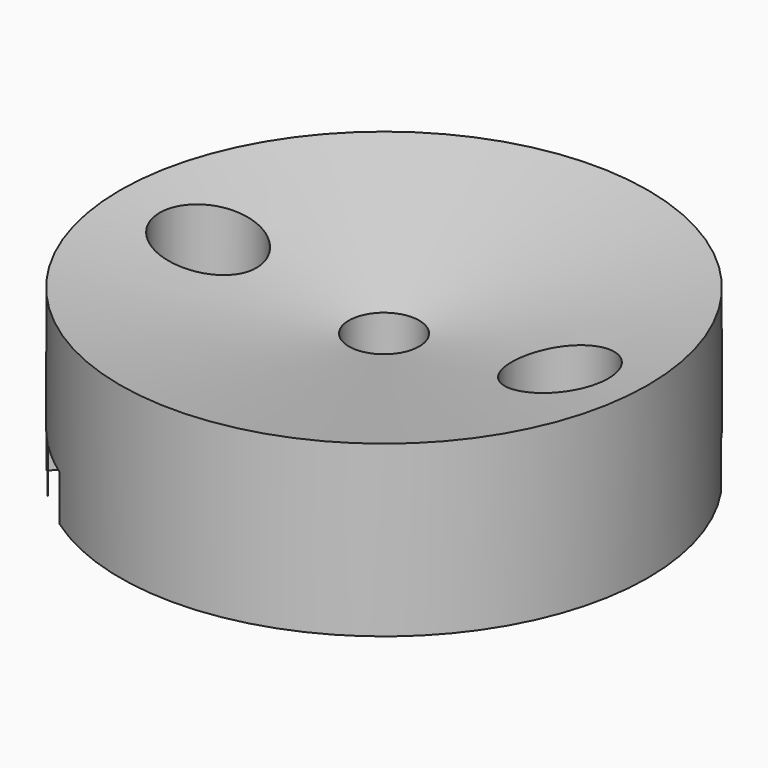
from build123d import *

# Parameters (mm, degrees)
REVOLVE_ONTO_SKETCH002_ROLL_ANGLE = 90.0000000001
ARRAY_COUNT                       = 2
SKETCH001_R                       = 2
POCKET_DEPTH                      = 9.6459047106
POCKET001_DEPTH                   = 2.6
POCKET002_DEPTH                   = 5
SKETCH005_R                       = 1.7
POCKET003_DEPTH                   = 3
SKETCH006_R                       = 1.7
POCKET004_DEPTH                   = 7.3269450049


with BuildPart() as array:
    # Sketch002 as drawn → Revolve (revolve)
    with BuildSketch(Plane.XY):
        Polygon((7.25, 10), (7.25, 4), (8.5, 4), (8.5, -1), (10, -1), (10, 10), align=None)
    revolve(axis=Axis((10, -1, 0), (0, 1, 0)))


with BuildPart() as array_1:
    # Revolve onto Sketch002 roll: moved
    add(array.part.rotate(Axis((0, 0, 0), (1, 0, 0)), REVOLVE_ONTO_SKETCH002_ROLL_ANGLE))


with BuildPart() as array_2:
    # Revolve onto Sketch002 placement: moved
    add(array_1.part)

    # Array: Array ×2 about axis
    array_axis = Axis((0, 0, 0), (0, 0, 1))


with BuildPart() as array_3:
    add(array_2.part)
    for i in range(1, ARRAY_COUNT):
        add(array_2.part.rotate(array_axis, i * 360 / ARRAY_COUNT))


with BuildPart() as pocket004:
    # Sketch → Revolution (revolve)
    with BuildSketch(Plane.XZ):
        Polygon((0, 0), (15, 0), (15, 9.6449047106), (0, 7), align=None)
    revolve(axis=Axis((0, 0, 0), (0, 0, 1)))

    # Sketch001 → Pocket (cut, through all)
    with BuildSketch(Plane(origin=(0, 0, 0), x_dir=(1, 0, 0), z_dir=(0, 0, -1))):
        Circle(SKETCH001_R)
    extrude(amount=-POCKET_DEPTH, mode=Mode.SUBTRACT)

    # Cut: cut Array
    add(array_3.part, mode=Mode.SUBTRACT)

    # Sketch003 → Pocket001 (cut)
    with BuildSketch(Plane(origin=(0, 0, 0), x_dir=(1, 0, 0), z_dir=(0, 0, -1))):
        Polygon((-12.4316043172, 8.7547471036), (-8.7815991184, 12.458456332), (12.5853843422, -8.5987044497), (8.9353791434, -12.3024136782), align=None)
    extrude(amount=-POCKET001_DEPTH, mode=Mode.SUBTRACT)

    # Sketch004 → Pocket002 (cut)
    with BuildSketch(Plane(origin=(0, 0, 0), x_dir=(1, 0, 0), z_dir=(0, 0, -1))):
        Polygon((-6.9172433584, -3.9560102728), (-3.8989698287, -0.8933276416), (-0.8362871974, -3.9116011713), (-3.8545607272, -6.9742838025), align=None)
    extrude(amount=-POCKET002_DEPTH, mode=Mode.SUBTRACT)

    # Sketch005 → Pocket003 (cut)
    with BuildSketch(Plane(origin=(-2.367628513, 2.4024644064, 0), x_dir=(-0.7122517747, -0.7019240767, 0), z_dir=(-0.7019240767, 0.7122517747, 0))):
        with Locations((0, 2.8)):
            Circle(SKETCH005_R)
    extrude(amount=-POCKET003_DEPTH, mode=Mode.SUBTRACT)

    # Sketch006 → Pocket004 (cut)
    with BuildSketch(Plane(origin=(-5.3859020428, 5.4651470377, 0), x_dir=(0.7122517747, 0.7019240767, 0), z_dir=(0.7019240767, -0.7122517747, 0))):
        with Locations((0, 2.8)):
            Circle(SKETCH006_R)
    extrude(amount=-POCKET004_DEPTH, mode=Mode.SUBTRACT)


solid = pocket004.part
